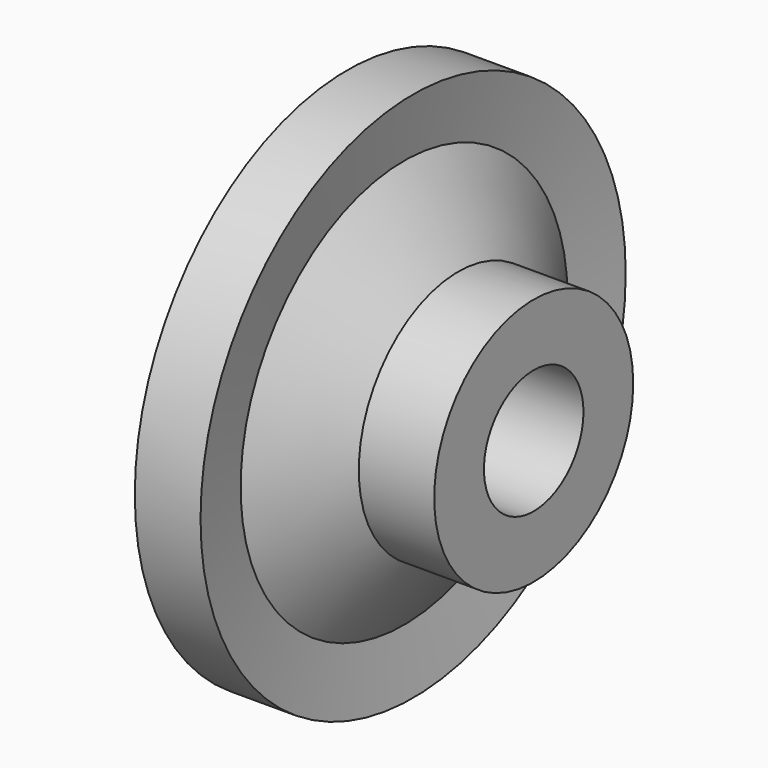
from build123d import *


with BuildPart() as f1:
    # F0 (on Top) → F1 (revolve)
    with BuildSketch(Plane.XY):
        Polygon((-17.710309, 19.015767), (-18.230127, 11.377341), (-1.230127, 11.377341), (-1.230127, 16.877341), (-7.899723, 16.877341), (-12.693053, 23.948846), (-11.895575, 29.377341), (-17.710309, 29.377341), (-19.049563, 24.302283), align=None)
    revolve(axis=Axis((-13.608646, 5.877341, 0), (1, 0, 0)))


solid = f1.part
